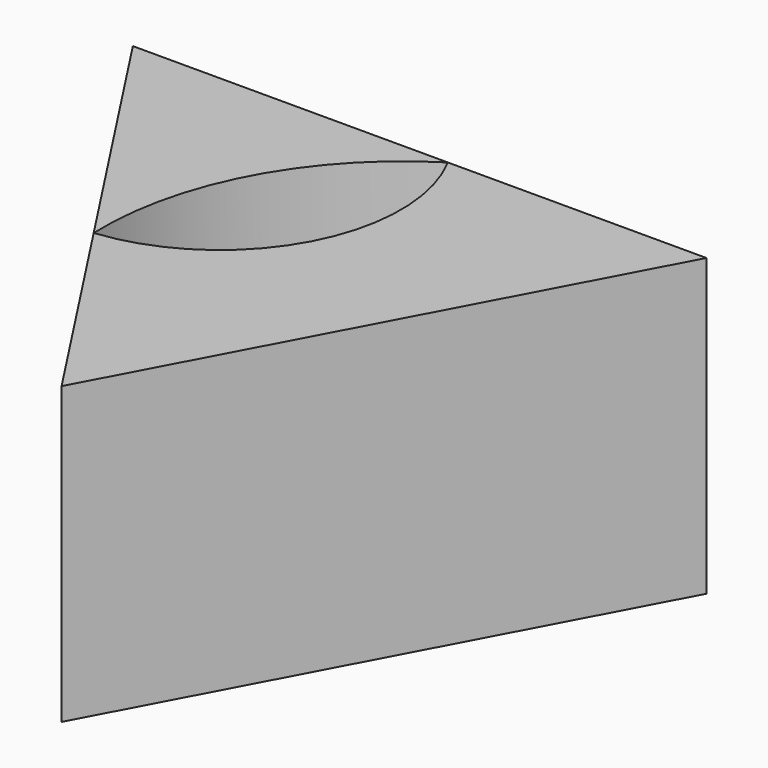
from build123d import *

# Parameters (mm, degrees)
F1_DEPTH = 25.4


with BuildPart() as f1:
    # F0 (on Top) → F1 (new body)
    with BuildSketch(Plane.XY):
        with BuildLine():
            Line((4.716561, 12.989431), (-22.350902, 12.989431))
            Line((-22.350902, 12.989431), (-7.440215, -9.855957))
            ThreePointArc((-7.440215, -9.855957), (-4.42572, 3.197134), (4.716561, 12.989431))
        make_face()
        with BuildLine():
            ThreePointArc((4.716561, 12.989431), (4.730457, -1.675166), (-7.440215, -9.855957))
            Line((-7.440215, -9.855957), (4.781897, -28.58205))
            Line((4.781897, -28.58205), (26.933659, 12.989431))
            Line((26.933659, 12.989431), (4.716561, 12.989431))
        make_face()
    extrude(amount=F1_DEPTH)


solid = f1.part
